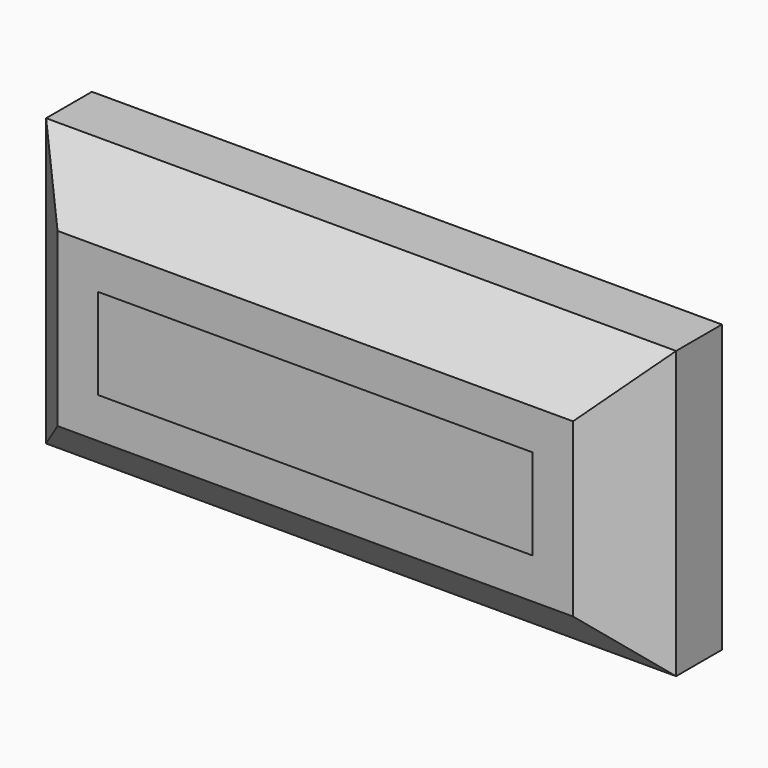
from build123d import *

# Parameters (mm, degrees)
F0_W     = 55
F0_H     = 25
F1_DEPTH = 10
F2_SIZE  = 5
F3_T     = -2.5


with BuildPart() as f1:
    # F0 (on Front) → F1 (new body)
    with BuildSketch(Plane.XZ):
        with Locations((-10.534275, 17.852823)):
            Rectangle(F0_W, F0_H)
    extrude(amount=F1_DEPTH)

    # F2
    f2_edges = [f1.edges().sort_by_distance(p)[0] for p in [
        (-10.534275, -10, 30.352823),
        (-38.034275, -10, 17.852823),
        (-10.534275, -10, 5.352823),
        (16.965725, -10, 17.852823),
    ]]
    chamfer(f2_edges, length=F2_SIZE)

    # F3
    f3_openings = [f1.faces().sort_by_distance(p)[0] for p in [
        (-10.534275, -10, 17.852823),
    ]]
    offset(amount=F3_T, openings=f3_openings)


solid = f1.part
